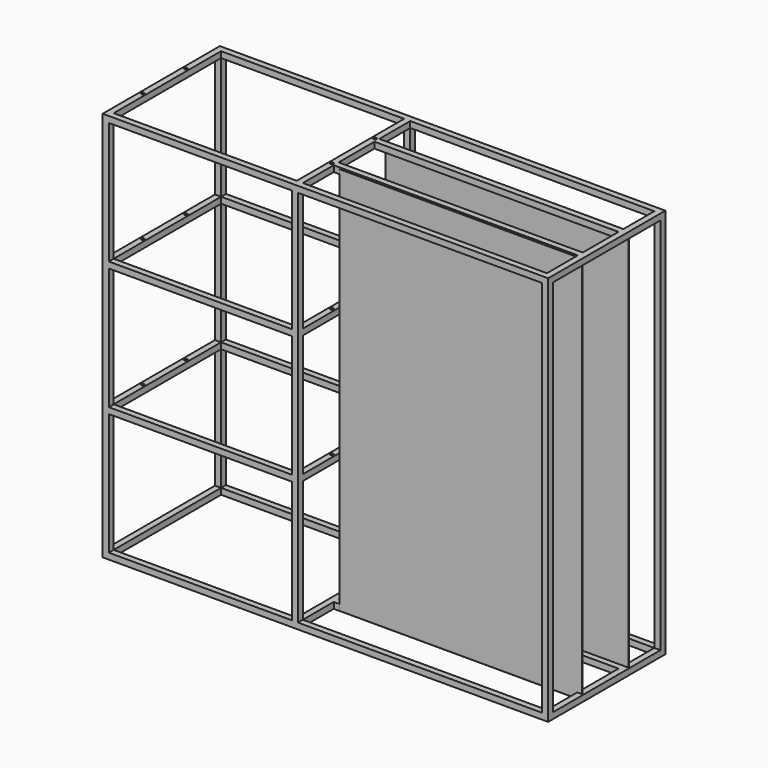
from build123d import *

# Parameters (mm, degrees)
F0_W      = 25.4
F0_H      = 25.4
F1_DEPTH  = 609.6
F2_W      = 25.4
F2_H      = 25.4
F3_DEPTH  = 1854.2
F4_W      = 25.4
F4_H      = 25.4
F5_DEPTH  = 812.8
F6_W      = 25.4
F6_H      = 25.4
F7_DEPTH  = 1625.6
F8_W      = 25.4
F8_H      = 25.4
F9_DEPTH  = 1041.4
F10_W     = 1010.92
F10_H     = 1615.44
F11_DEPTH = 3.048
F12_W     = 1010.92
F12_H     = 1615.44
F13_DEPTH = 3.048
F14_R     = 6.35
F15_DEPTH = 1600.2


with BuildPart() as f1:
    # F0 (on Front) → F1 (new body)
    with BuildSketch(Plane.XZ):
        with Locations((12.7, 12.7)):
            Rectangle(F0_W, F0_H)
        with Locations((12.7, 546.1)):
            Rectangle(F0_W, F0_H)
        with Locations((12.7, 1079.5)):
            Rectangle(F0_W, F0_H)
        with Locations((12.7, 1612.9)):
            Rectangle(F0_W, F0_H)
        with Locations((800.1, 1612.9)):
            Rectangle(F0_W, F0_H)
        with Locations((800.1, 1079.5)):
            Rectangle(F0_W, F0_H)
        with Locations((800.1, 546.1)):
            Rectangle(F0_W, F0_H)
        with Locations((800.1, 12.7)):
            Rectangle(F0_W, F0_H)
        with Locations((1841.5, 1612.9)):
            Rectangle(F0_W, F0_H)
        with Locations((1841.5, 12.7)):
            Rectangle(F0_W, F0_H)
    extrude(amount=F1_DEPTH)

    # F2 (on Right) → F3 (join, through all)
    with BuildSketch(Plane.YZ):
        with Locations((-596.9, 1612.9)):
            Rectangle(F2_W, F2_H)
        with Locations((-12.7, 1612.9)):
            Rectangle(F2_W, F2_H)
        with Locations((-596.9, 12.7)):
            Rectangle(F2_W, F2_H)
        with Locations((-12.7, 12.7)):
            Rectangle(F2_W, F2_H)
    extrude(amount=F3_DEPTH)

    # F4 (on Right) → F5 (join, through all)
    with BuildSketch(Plane.YZ):
        with Locations((-596.9, 546.1)):
            Rectangle(F4_W, F4_H)
        with Locations((-12.7, 546.1)):
            Rectangle(F4_W, F4_H)
        with Locations((-596.9, 1079.5)):
            Rectangle(F4_W, F4_H)
        with Locations((-12.7, 1079.5)):
            Rectangle(F4_W, F4_H)
    extrude(amount=F5_DEPTH)

    # F6 (on Top) → F7 (join, through all)
    with BuildSketch(Plane.XY):
        with Locations((12.7, -12.7)):
            Rectangle(F6_W, F6_H)
        with Locations((800.1, -12.7)):
            Rectangle(F6_W, F6_H)
        with Locations((12.7, -596.9)):
            Rectangle(F6_W, F6_H)
        with Locations((800.1, -596.9)):
            Rectangle(F6_W, F6_H)
        with Locations((1841.5, -596.9)):
            Rectangle(F6_W, F6_H)
        with Locations((1841.5, -12.7)):
            Rectangle(F6_W, F6_H)
    extrude(amount=F7_DEPTH)

    # F8 (on face) → F9 (join, through all)
    with BuildSketch(Plane.YZ.offset(812.8)):
        with Locations((-410.633333, 1612.9)):
            Rectangle(F8_W, F8_H)
        with Locations((-198.966667, 1612.9)):
            Rectangle(F8_W, F8_H)
        with Locations((-410.633333, 12.7)):
            Rectangle(F8_W, F8_H)
        with Locations((-198.966667, 12.7)):
            Rectangle(F8_W, F8_H)
    extrude(amount=F9_DEPTH)

    # F10 (on face) → F11 (join)
    with BuildSketch(Plane.XZ.offset(423.333333)):
        with Locations((1343.66, 812.8)):
            Rectangle(F10_W, F10_H)
    extrude(amount=F11_DEPTH)

    # F12 (on face) → F13 (join)
    with BuildSketch(Plane(origin=(0, -186.266667, 0), x_dir=(-1, 0, 0), z_dir=(0, 1, 0))):
        with Locations((-1343.66, 812.8)):
            Rectangle(F12_W, F12_H)
    extrude(amount=F13_DEPTH)

    # F14 (on face) → F15 (cut, through all)
    with BuildSketch(Plane.XY.offset(1625.6)):
        with Locations((12.7, -416.814)):
            Circle(F14_R)
        with Locations((800.1, -416.814)):
            Circle(F14_R)
        with Locations((800.1, -192.786)):
            Circle(F14_R)
        with Locations((12.7, -192.786)):
            Circle(F14_R)
    extrude(amount=-F15_DEPTH, mode=Mode.SUBTRACT)


solid = f1.part
